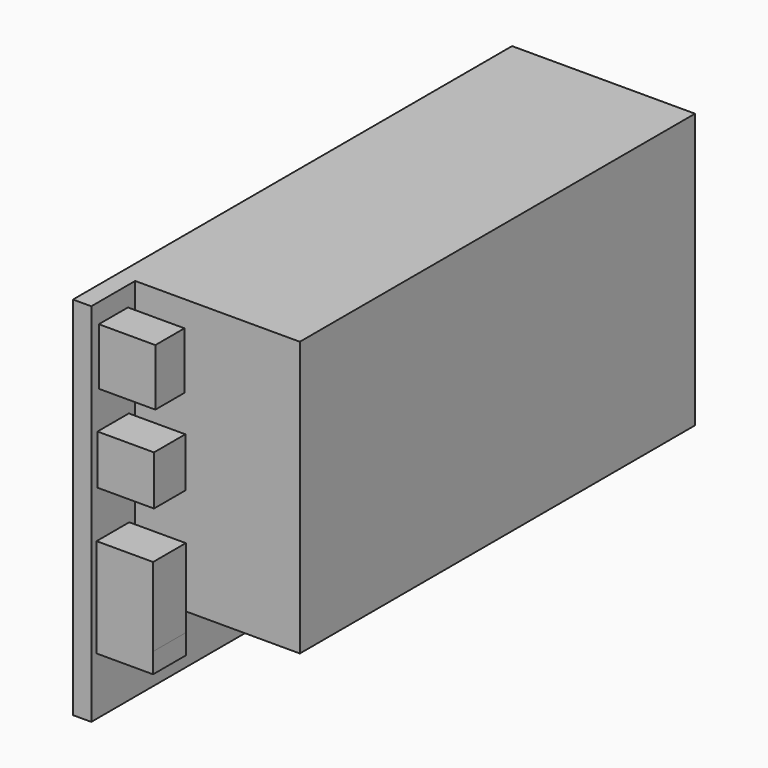
from build123d import *

# Parameters (mm, degrees)
SKETCH054_W             = 40
SKETCH054_H             = 60
PAD026_DEPTH            = 20
SKETCH055_W             = 76.736599
SKETCH055_H             = 75.902515
SKETCH055_W_2           = 30
SKETCH055_H_2           = 54
SKETCH055_W_3           = 6.212331
SKETCH055_H_3           = 3.975892
SKETCH055_W_4           = 5.404726
SKETCH055_H_4           = 4.286509
SKETCH055_W_5           = 10.809453
SKETCH055_H_5           = 4.472877
SKETCH055_W_6           = 5.031989
SKETCH055_H_6           = 11.120071
SKETCH055_W_7           = 5.094109
SKETCH055_H_7           = 10.188222
POCKET035_DEPTH         = 18
SKETCH056_W             = 9.119706
SKETCH056_H             = 14.092372
POCKET036_DEPTH         = 56.898491
POCKET036_FACE35_W      = 4.472877
POCKET036_FACE35_H      = 11.822582
POCKET037_DEPTH         = 31.511028
BODY012_PLACEMENT_ANGLE = 90


with BuildPart() as part:
    # Sketch054 → Pad026 (new body)
    with BuildSketch(Plane.XY):
        Rectangle(SKETCH054_W, SKETCH054_H)
    extrude(amount=PAD026_DEPTH)

    # Sketch055 (on Face6 of Pad026) → Pocket035 (cut)
    with BuildSketch(Plane.XY.offset(20)):
        with Locations((-3.081739, -0.215215)):
            Rectangle(SKETCH055_W, SKETCH055_H)
        with Locations((-5, 3)):
            Rectangle(SKETCH055_W_2, SKETCH055_H_2, mode=Mode.SUBTRACT)
        with Locations((-14.747609, -26.978939)):
            Rectangle(SKETCH055_W_3, SKETCH055_H_3, mode=Mode.SUBTRACT)
        with Locations((-4.901067, -27.009999)):
            Rectangle(SKETCH055_W_4, SKETCH055_H_4, mode=Mode.SUBTRACT)
        with Locations((8.300133, -27.041061)):
            Rectangle(SKETCH055_W_5, SKETCH055_H_5, mode=Mode.SUBTRACT)
        with Locations((14.981133, 21.337455)):
            Rectangle(SKETCH055_W_6, SKETCH055_H_6, mode=Mode.SUBTRACT)
        with Locations((15.012193, 8.136257)):
            Rectangle(SKETCH055_W_7, SKETCH055_H_7, mode=Mode.SUBTRACT)
    extrude(amount=-POCKET035_DEPTH, mode=Mode.SUBTRACT)

    # Sketch056 (on Face20 of Pocket035) → Pocket036 (cut, through all)
    with BuildSketch(Plane(origin=(0, 26.897491, 0), x_dir=(-1, 0, 0), z_dir=(0, 1, 0))):
        with Locations((-16.069881, 15.223603)):
            Rectangle(SKETCH056_W, SKETCH056_H)
    extrude(amount=-POCKET036_DEPTH, mode=Mode.SUBTRACT)

    # Pocket036 Face35 → Pocket037 (cut, through all)
    with BuildSketch(Plane(origin=(11.510028, -27.041061, 14.088709), x_dir=(0, -1, 0), z_dir=(1, 0, 0))):
        with Locations((1e-06, 0)):
            Rectangle(POCKET036_FACE35_W, POCKET036_FACE35_H)
    extrude(amount=-POCKET037_DEPTH, mode=Mode.SUBTRACT)


with BuildPart() as part_1:
    # Body012 placement: moved
    add(part.part.moved(Location((-27.6, 75, -1))).rotate(Axis((-27.6, 75, -1), (0, 1, 0)), BODY012_PLACEMENT_ANGLE))


solid = part_1.part
